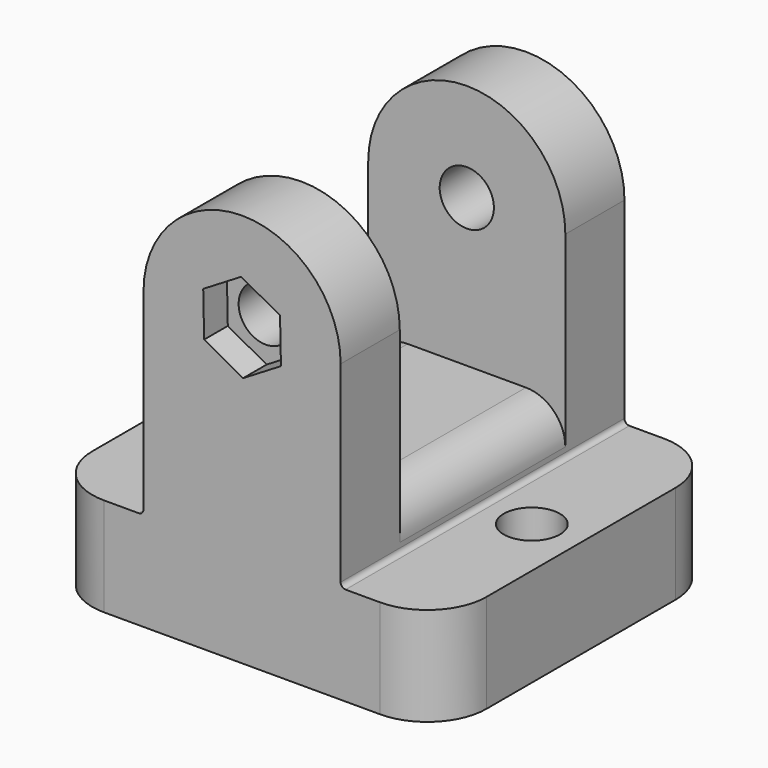
from build123d import *

# Parameters (mm, degrees)
PAD_DEPTH       = 36
SKETCH001_W     = 41.77589
SKETCH001_H     = 47.890068
POCKET_DEPTH    = 10.5
SKETCH002_R     = 2.75
POCKET001_DEPTH = 36.001
FILLET_R        = 4
FILLET001_R     = 0.5
SKETCH003_R     = 2.85
HOLE_DEPTH      = 16.001
FILLET002_R     = 6
CHAMFER_SIZE    = 2
POCKET002_DEPTH = 3


with BuildPart() as part:
    # Sketch → Pad (new body)
    with BuildSketch(Plane.XZ):
        with BuildLine():
            Line((-20, 0), (20, 0))
            Line((20, 10), (20, 0))
            Line((10, 10), (20, 10))
            Line((10, 30), (10, 10))
            ThreePointArc((10, 30), (0, 40), (-10, 30))
            Line((-10, 10), (-10, 30))
            Line((-20, 10), (-10, 10))
            Line((-20, 0), (-20, 10))
        make_face()
    extrude(amount=PAD_DEPTH)

    # Sketch001 (on DatumPlane) → Pocket (cut, symmetric)
    with BuildSketch(Plane(origin=(0, -18, 0), x_dir=(1, 0, 0), z_dir=(0, 1, 0))):
        with Locations((0.131337, -38.945034)):
            Rectangle(SKETCH001_W, SKETCH001_H)
    extrude(amount=POCKET_DEPTH, both=True, mode=Mode.SUBTRACT)

    # Sketch002 (on Face4 of Pocket) → Pocket001 (cut, through all)
    with BuildSketch(Plane(origin=(0, 0, 0), x_dir=(1, 0, 0), z_dir=(0, 1, 0))):
        with Locations((0, -30)):
            Circle(SKETCH002_R)
    extrude(amount=-POCKET001_DEPTH, mode=Mode.SUBTRACT)

    # Fillet
    fillet_edges = [part.edges().sort_by_distance(p)[0] for p in [
        (10, -18, 15),
        (-10, -18, 15),
    ]]
    fillet(fillet_edges, radius=FILLET_R)

    # Fillet001
    fillet001_edges = [part.edges().sort_by_distance(p)[0] for p in [
        (10, -18, 10),
        (-10, -18, 10),
    ]]
    fillet(fillet001_edges, radius=FILLET001_R)

    # Sketch003 (on DatumPlane) → Hole (cut, through all)
    with BuildSketch(Plane(origin=(0, 0, 16), x_dir=(1, 0, 0), z_dir=(0, 0, -1))):
        with Locations((15, 18)):
            Circle(SKETCH003_R)
        with Locations((-15, 18)):
            Circle(SKETCH003_R)
    extrude(amount=HOLE_DEPTH, mode=Mode.SUBTRACT)

    # Fillet002
    fillet002_edges = [part.edges().sort_by_distance(p)[0] for p in [
        (20, 0, 5),
        (-20, 0, 5),
        (-20, -36, 5),
        (20, -36, 5),
    ]]
    fillet(fillet002_edges, radius=FILLET002_R)

    # Chamfer
    chamfer_edges = [part.edges().sort_by_distance(p)[0] for p in [
        (-2.75, 0, 30),
    ]]
    chamfer(chamfer_edges, length=CHAMFER_SIZE)

    # Sketch004 (on Face15 of Chamfer) → Pocket002 (cut)
    with BuildSketch(Plane.XZ.offset(36)):
        Polygon((-0.093793, 34.5), (-3.944011, 32.168773), (-3.850218, 27.668773), (0.093793, 25.5), (3.944011, 27.831227), (3.850218, 32.331227), align=None)
    extrude(amount=-POCKET002_DEPTH, mode=Mode.SUBTRACT)


solid = part.part
